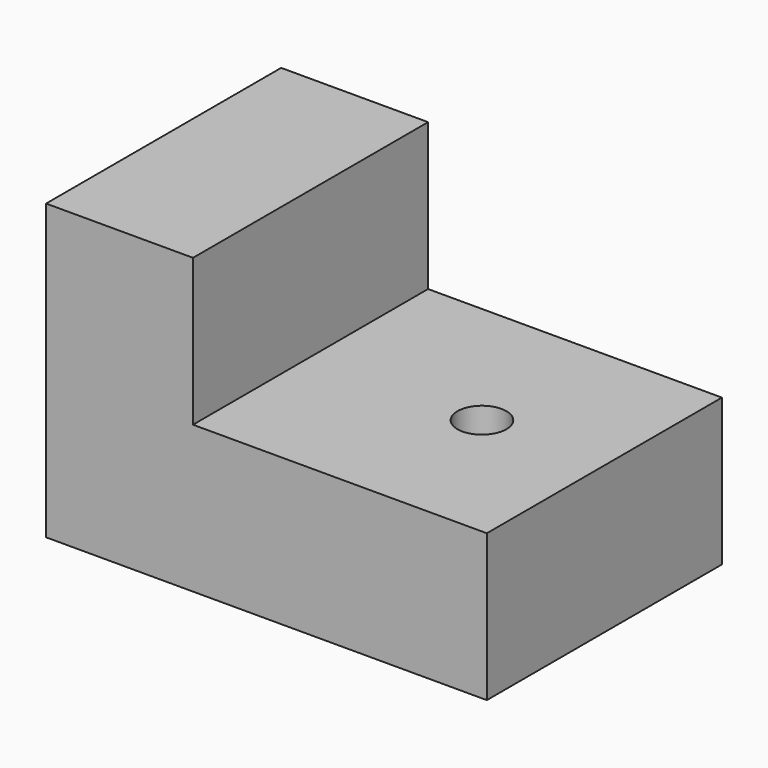
from build123d import *

# Parameters (mm, degrees)
F0_W     = 3
F0_H     = 6
F1_DEPTH = 6
F0_W_2   = 6
F0_R     = 0.5
F2_DEPTH = 3


with BuildPart() as f1:
    # F0 (on Top) → F1 (new body)
    with BuildSketch(Plane.XY):
        with Locations((-7.5, 3)):
            Rectangle(F0_W, F0_H)
    extrude(amount=F1_DEPTH)

    # F0 (on Top) → F2 (join)
    with BuildSketch(Plane.XY):
        with Locations((-3, 3)):
            Rectangle(F0_W_2, F0_H)
        with Locations((-2.5, 3)):
            Circle(F0_R, mode=Mode.SUBTRACT)
    extrude(amount=F2_DEPTH)


solid = f1.part
